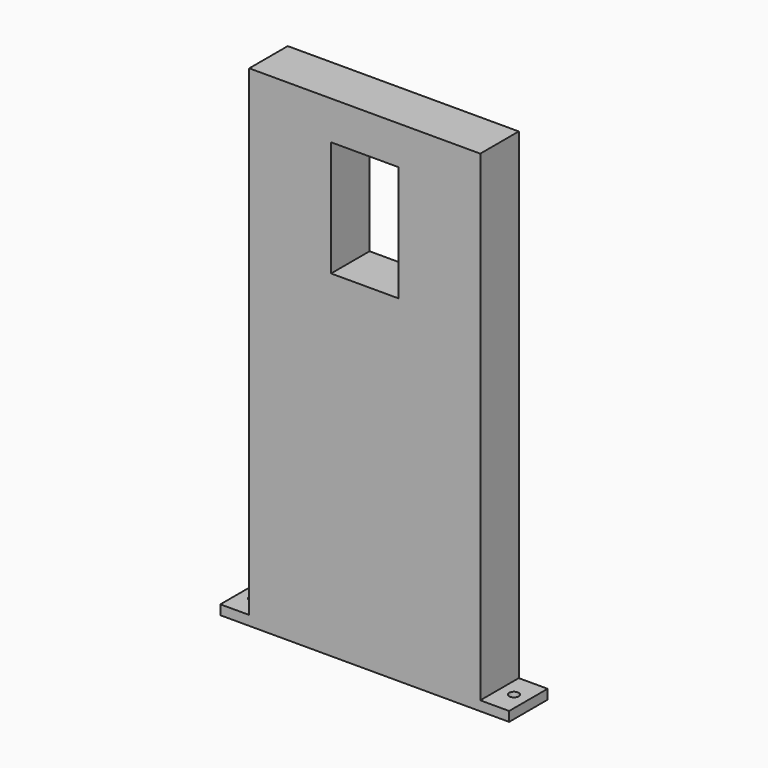
from build123d import *

# Parameters (mm, degrees)
SKETCH_W        = 14
SKETCH_H        = 24
PAD_DEPTH       = 5
SKETCH003_R     = 1
POCKET_DEPTH    = 5
SKETCH004_R     = 1
POCKET001_DEPTH = 6


with BuildPart() as part:
    # Sketch → Pad (new body, symmetric)
    with BuildSketch(Plane.XZ):
        Polygon((-30, 0), (30, 0), (30, 2), (24, 2), (24, 102), (-24, 102), (-24, 2), (-30, 2), align=None)
        with Locations((0, 82)):
            Rectangle(SKETCH_W, SKETCH_H, mode=Mode.SUBTRACT)
    extrude(amount=PAD_DEPTH, both=True)

    # Sketch003 → Pocket (cut)
    with BuildSketch(Plane.XY):
        with Locations((-27, 0)):
            Circle(SKETCH003_R)
        with Locations((27, 0)):
            Circle(SKETCH003_R)
    extrude(amount=POCKET_DEPTH, mode=Mode.SUBTRACT)

    # Sketch004 → Pocket001 (cut)
    with BuildSketch(Plane.XZ):
        with Locations((0, 67.5)):
            Circle(SKETCH004_R)
        with Locations((0, 95.5)):
            Circle(SKETCH004_R)
    extrude(amount=-POCKET001_DEPTH, mode=Mode.SUBTRACT)


solid = part.part
